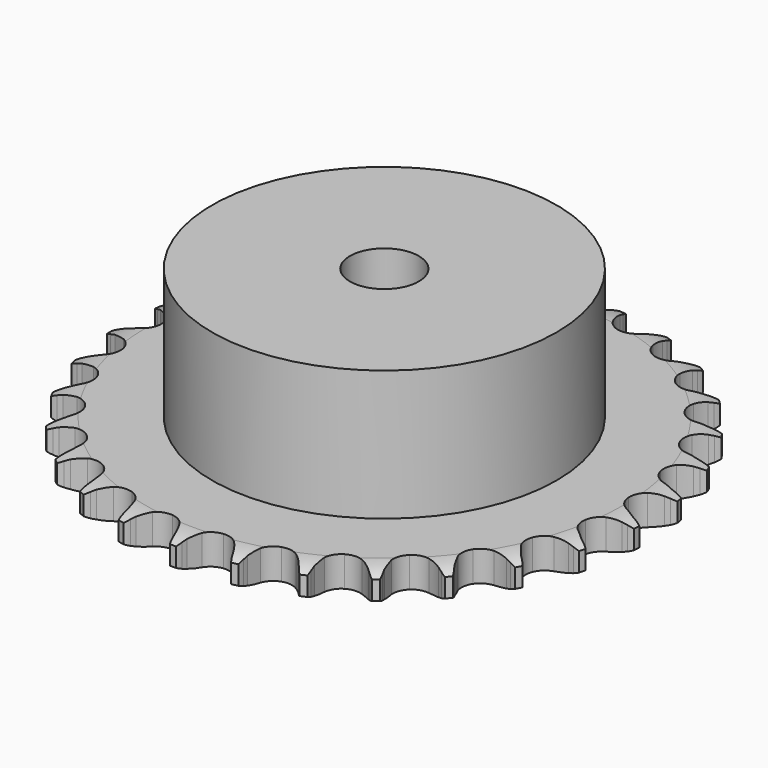
from build123d import *

# Parameters (mm, degrees)
PAD_DEPTH         = 5.3
SKETCH001_R       = 30
PAD001_DEPTH      = 28
SKETCH002_R       = 6
POCKET_DEPTH      = 0.001
POCKET_DEPTH_BACK = 28.001


with BuildPart() as part:
    # Sprocket → Pad (new body)
    with BuildSketch(Plane.XY):
        with BuildLine():
            ThreePointArc((-5.070808, 46.62531), (-4.460119, 45.833793), (-4.013256, 44.939504))
            Line((-4.013256, 44.939504), (-3.703711, 44.133111))
            ThreePointArc((-3.703711, 44.133111), (-3.211382, 43.078137), (-2.576433, 42.102331))
            ThreePointArc((-2.576433, 42.102331), (-1.439022, 41.158092), (0, 40.819705))
            ThreePointArc((0, 40.819705), (1.439022, 41.158092), (2.576433, 42.102331))
            ThreePointArc((2.576433, 42.102331), (3.211382, 43.078137), (3.703711, 44.133111))
            Line((3.703711, 44.133111), (4.013256, 44.939504))
            ThreePointArc((4.013256, 44.939504), (4.460119, 45.833793), (5.070808, 46.62531))
            ThreePointArc((5.070808, 46.62531), (5.497067, 45.721018), (5.741236, 44.751574))
            Line((5.741236, 44.751574), (5.870194, 43.897492))
            ThreePointArc((5.870194, 43.897492), (6.124224, 42.761346), (6.534559, 41.671859))
            ThreePointArc((6.534559, 41.671859), (7.442395, 40.505186), (8.77503, 39.865363))
            ThreePointArc((8.77503, 39.865363), (10.253152, 39.886492), (11.566954, 40.564145))
            Line((11.566954, 40.564145), (13.104434, 42.305115))
            ThreePointArc((13.104434, 42.305115), (13.332889, 42.671798), (13.580093, 43.026112))
            ThreePointArc((13.580093, 43.026112), (14.208754, 43.803431), (14.975319, 44.445163))
            ThreePointArc((14.975319, 44.445163), (15.197216, 43.470379), (15.227275, 42.471111))
            Line((15.227275, 42.471111), (15.169615, 41.609274))
            ThreePointArc((15.169615, 41.609274), (15.173469, 40.445083), (15.340003, 39.292857))
            ThreePointArc((15.340003, 39.292857), (15.975813, 37.958303), (17.139749, 37.046961))
            ThreePointArc((17.139749, 37.046961), (18.587856, 36.749843), (20.016618, 37.129225))
            Line((20.016618, 37.129225), (21.892409, 38.498979))
            ThreePointArc((21.892409, 38.498979), (22.194348, 38.807978), (22.51194, 39.100866))
            ThreePointArc((22.51194, 39.100866), (23.293004, 39.724869), (24.1796, 40.186808))
            ThreePointArc((24.1796, 40.186808), (24.18676, 39.187114), (24.001303, 38.204746))
            Line((24.001303, 38.204746), (23.759722, 37.375454))
            ThreePointArc((23.759722, 37.375454), (23.513219, 36.237652), (23.428165, 35.076565))
            ThreePointArc((23.428165, 35.076565), (23.762221, 33.636531), (24.703033, 32.496284))
            ThreePointArc((24.703033, 32.496284), (26.053412, 31.894813), (27.530326, 31.958183))
            Line((27.530326, 31.958183), (29.656719, 32.892673))
            ThreePointArc((29.656719, 32.892673), (30.018025, 33.129541), (30.391154, 33.347308))
            ThreePointArc((30.391154, 33.347308), (31.288099, 33.788816), (32.253271, 34.049364))
            ThreePointArc((32.253271, 34.049364), (32.045359, 33.071502), (31.653057, 32.15197))
            Line((31.653057, 32.15197), (31.238851, 31.393998))
            ThreePointArc((31.238851, 31.393998), (30.753517, 30.335789), (30.420852, 29.220131))
            ThreePointArc((30.420852, 29.220131), (30.437533, 27.741953), (31.11123, 26.426117))
            ThreePointArc((31.11123, 26.426117), (32.300739, 25.548416), (33.756747, 25.292812))
            Line((33.756747, 25.292812), (36.034314, 25.748343))
            ThreePointArc((36.034314, 25.748343), (36.438092, 25.902002), (36.849311, 26.034467))
            ThreePointArc((36.849311, 26.034467), (37.820198, 26.272836), (38.818814, 26.319809))
            ThreePointArc((38.818814, 26.319809), (38.405551, 25.409504), (37.82475, 24.595803))
            Line((37.82475, 24.595803), (37.257285, 23.944595))
            ThreePointArc((37.257285, 23.944595), (36.555815, 23.015458), (35.991094, 21.997397))
            ThreePointArc((35.991094, 21.997397), (35.68962, 20.550191), (36.064701, 19.120294))
            ThreePointArc((36.064701, 19.120294), (37.03772, 18.007404), (38.40474, 17.444778))
            Line((38.40474, 17.444778), (40.726984, 17.400048))
            ThreePointArc((40.726984, 17.400048), (41.154355, 17.463315), (41.584436, 17.504283))
            ThreePointArc((41.584436, 17.504283), (42.583866, 17.528367), (43.569232, 17.359569))
            ThreePointArc((43.569232, 17.359569), (42.969943, 16.559386), (42.227799, 15.889564))
            Line((42.227799, 15.889564), (41.533611, 15.375568))
            ThreePointArc((41.533611, 15.375568), (40.648803, 14.61895), (39.878432, 13.746089))
            ThreePointArc((39.878432, 13.746089), (39.2729, 12.397526), (39.331826, 10.920428))
            ThreePointArc((39.331826, 10.920428), (40.042859, 9.624386), (41.25697, 8.781045))
            Line((41.25697, 8.781045), (43.515306, 8.238147))
            ThreePointArc((43.515306, 8.238147), (43.946285, 8.208063), (44.375118, 8.155618))
            ThreePointArc((44.375118, 8.155618), (45.356359, 7.964291), (46.282402, 7.587615))
            ThreePointArc((46.282402, 7.587615), (45.525108, 6.934969), (44.656323, 6.440346))
            Line((44.656323, 6.440346), (43.867871, 6.087598))
            ThreePointArc((43.867871, 6.087598), (42.841099, 5.538876), (41.901099, 4.852029))
            ThreePointArc((41.901099, 4.852029), (41.019823, 3.665166), (40.759839, 2.209934))
            ThreePointArc((40.759839, 2.209934), (41.175638, 0.791342), (42.18007, -0.29328))
            Line((42.18007, -0.29328), (44.268901, -1.308961))
            ThreePointArc((44.268901, -1.308961), (44.683336, -1.430989), (45.090869, -1.574395))
            ThreePointArc((45.090869, -1.574395), (46.00804, -1.972186), (46.831458, -2.539128))
            ThreePointArc((46.831458, -2.539128), (45.95157, -3.013719), (44.996767, -3.310015))
            Line((44.996767, -3.310015), (44.150918, -3.485023))
            ThreePointArc((44.150918, -3.485023), (43.030192, -3.80019), (41.964518, -4.268907))
            ThreePointArc((41.964518, -4.268907), (40.848705, -5.238573), (40.281967, -6.603893))
            ThreePointArc((40.281967, -6.603893), (40.383089, -8.078704), (41.130877, -9.353892))
            Line((41.130877, -9.353892), (42.95253, -10.794863))
            ThreePointArc((42.95253, -10.794863), (43.331044, -11.00313), (43.698221, -11.23079))
            ThreePointArc((43.698221, -11.23079), (44.508436, -11.816446), (45.190727, -12.547144))
            ThreePointArc((45.190727, -12.547144), (44.229387, -12.821489), (43.233212, -12.905603))
            Line((43.233212, -12.905603), (42.369517, -12.894687))
            ThreePointArc((42.369517, -12.894687), (41.207242, -12.961563), (40.065722, -13.190233))
            ThreePointArc((40.065722, -13.190233), (38.767547, -13.897362), (37.920555, -15.10893))
            ThreePointArc((37.920555, -15.10893), (37.702273, -16.570998), (38.158449, -17.977126))
            Line((38.158449, -17.977126), (39.627748, -19.776009))
            ThreePointArc((39.627748, -19.776009), (39.952641, -20.060777), (40.262293, -20.362046))
            ThreePointArc((40.262293, -20.362046), (40.927667, -21.108182), (41.436928, -21.968469))
            ThreePointArc((41.436928, -21.968469), (40.439087, -22.029741), (39.44812, -21.89774))
            Line((39.44812, -21.89774), (38.606965, -21.70141))
            ThreePointArc((38.606965, -21.70141), (37.457486, -21.516868), (36.293497, -21.494798))
            ThreePointArc((36.293497, -21.494798), (34.873661, -21.906326), (33.78602, -22.90749))
            ThreePointArc((33.78602, -22.90749), (33.25854, -24.288452), (33.401775, -25.759769))
            Line((33.401775, -25.759769), (34.450016, -27.832452))
            ThreePointArc((34.450016, -27.832452), (34.706096, -28.180404), (34.943745, -28.541196))
            ThreePointArc((34.943745, -28.541196), (35.433166, -29.412923), (35.745584, -30.362573))
            ThreePointArc((35.745584, -30.362573), (34.757901, -30.207906), (33.818478, -29.865963))
            Line((33.818478, -29.865963), (33.039194, -29.493399))
            ThreePointArc((33.039194, -29.493399), (31.95626, -29.066068), (30.824229, -28.794291))
            ThreePointArc((30.824229, -28.794291), (29.349121, -28.890975), (28.071689, -29.634922))
            ThreePointArc((28.071689, -29.634922), (27.259674, -30.870204), (27.083272, -32.337914))
            Line((27.083272, -32.337914), (27.661439, -34.587479))
            ThreePointArc((27.661439, -34.587479), (27.836733, -34.982346), (27.991266, -35.385791))
            ThreePointArc((27.991266, -35.385791), (28.281849, -36.342349), (28.382817, -37.336957))
            ThreePointArc((28.382817, -37.336957), (27.451474, -36.973583), (26.607522, -36.437686))
            Line((26.607522, -36.437686), (25.926547, -35.90631))
            ThreePointArc((25.926547, -35.90631), (24.960796, -35.256171), (23.913655, -34.747395))
            ThreePointArc((23.913655, -34.747395), (22.45225, -34.524713), (21.044756, -34.976657))
            ThreePointArc((21.044756, -34.976657), (19.986177, -36.0085), (19.498384, -37.403975))
            Line((19.498384, -37.403975), (19.579444, -39.725235))
            ThreePointArc((19.579444, -39.725235), (19.665756, -40.148553), (19.729947, -40.575786))
            ThreePointArc((19.729947, -40.575786), (19.808104, -41.572446), (19.6929, -42.565506))
            ThreePointArc((19.6929, -42.565506), (18.861446, -42.010417), (18.152427, -41.305624))
            Line((18.152427, -41.305624), (17.601603, -40.640282))
            ThreePointArc((17.601603, -40.640282), (16.798191, -39.797734), (15.884904, -39.075749))
            ThreePointArc((15.884904, -39.075749), (14.505536, -38.544115), (13.033794, -38.682923))
            ThreePointArc((13.033794, -38.682923), (11.778148, -39.463079), (11.001774, -40.721067))
            Line((11.001774, -40.721067), (10.581936, -43.005483))
            ThreePointArc((10.581936, -43.005483), (10.575229, -43.437459), (10.546077, -43.868502))
            ThreePointArc((10.546077, -43.868502), (10.408155, -44.858662), (10.082166, -45.80374))
            ThreePointArc((10.082166, -45.80374), (9.389478, -45.08289), (8.848545, -44.242157))
            Line((8.848545, -44.242157), (8.453628, -43.473959))
            ThreePointArc((8.453628, -43.473959), (7.850123, -42.4784), (7.113393, -41.576964))
            ThreePointArc((7.113393, -41.576964), (5.880559, -40.761236), (4.413386, -40.580418))
            ThreePointArc((4.413386, -40.580418), (3.019386, -41.072407), (1.990733, -42.134087))
            Line((1.990733, -42.134087), (1.089629, -44.274842))
            ThreePointArc((1.089629, -44.274842), (0.990216, -44.695277), (0.869085, -45.109976))
            ThreePointArc((0.869085, -45.109976), (0.521531, -46.047337), (0, -46.900241))
            ThreePointArc((0, -46.900241), (-0.521531, -46.047337), (-0.869085, -45.109976))
            Line((-0.869085, -45.109976), (-1.089629, -44.274842))
            ThreePointArc((-1.089629, -44.274842), (-1.465009, -43.172823), (-1.990733, -42.134087))
            ThreePointArc((-1.990733, -42.134087), (-3.019386, -41.072407), (-4.413386, -40.580418))
            ThreePointArc((-4.413386, -40.580418), (-5.880559, -40.761236), (-7.113393, -41.576964))
            Line((-7.113393, -41.576964), (-8.453628, -43.473959))
            ThreePointArc((-8.453628, -43.473959), (-8.641098, -43.863193), (-8.848545, -44.242157))
            ThreePointArc((-8.848545, -44.242157), (-9.389478, -45.08289), (-10.082166, -45.80374))
            ThreePointArc((-10.082166, -45.80374), (-10.408155, -44.858662), (-10.546077, -43.868502))
            Line((-10.546077, -43.868502), (-10.581936, -43.005483))
            ThreePointArc((-10.581936, -43.005483), (-10.711639, -41.848532), (-11.001774, -40.721067))
            ThreePointArc((-11.001774, -40.721067), (-11.778148, -39.463079), (-13.033794, -38.682923))
            ThreePointArc((-13.033794, -38.682923), (-14.505536, -38.544115), (-15.884904, -39.075749))
            Line((-15.884904, -39.075749), (-17.601603, -40.640282))
            ThreePointArc((-17.601603, -40.640282), (-17.868364, -40.980116), (-18.152427, -41.305624))
            ThreePointArc((-18.152427, -41.305624), (-18.861446, -42.010417), (-19.6929, -42.565506))
            ThreePointArc((-19.6929, -42.565506), (-19.808104, -41.572446), (-19.729947, -40.575786))
            Line((-19.729947, -40.575786), (-19.579444, -39.725235))
            ThreePointArc((-19.579444, -39.725235), (-19.457404, -38.567451), (-19.498384, -37.403975))
            ThreePointArc((-19.498384, -37.403975), (-19.986177, -36.0085), (-21.044756, -34.976657))
            ThreePointArc((-21.044756, -34.976657), (-22.45225, -34.524713), (-23.913655, -34.747395))
            Line((-23.913655, -34.747395), (-25.926547, -35.90631))
            ThreePointArc((-25.926547, -35.90631), (-26.260125, -36.180853), (-26.607522, -36.437686))
            ThreePointArc((-26.607522, -36.437686), (-27.451474, -36.973583), (-28.382817, -37.336957))
            ThreePointArc((-28.382817, -37.336957), (-28.281849, -36.342349), (-27.991266, -35.385791))
            Line((-27.991266, -35.385791), (-27.661439, -34.587479))
            ThreePointArc((-27.661439, -34.587479), (-27.293363, -33.482999), (-27.083272, -32.337914))
            ThreePointArc((-27.083272, -32.337914), (-27.259674, -30.870204), (-28.071689, -29.634922))
            ThreePointArc((-28.071689, -29.634922), (-29.349121, -28.890975), (-30.824229, -28.794291))
            Line((-30.824229, -28.794291), (-33.039194, -29.493399))
            ThreePointArc((-33.039194, -29.493399), (-33.423991, -29.689814), (-33.818478, -29.865963))
            ThreePointArc((-33.818478, -29.865963), (-34.757901, -30.207906), (-35.745584, -30.362573))
            ThreePointArc((-35.745584, -30.362573), (-35.433166, -29.412923), (-34.943745, -28.541196))
            Line((-34.943745, -28.541196), (-34.450016, -27.832452))
            ThreePointArc((-34.450016, -27.832452), (-33.853114, -26.832919), (-33.401775, -25.759769))
            ThreePointArc((-33.401775, -25.759769), (-33.25854, -24.288452), (-33.78602, -22.90749))
            ThreePointArc((-33.78602, -22.90749), (-34.873661, -21.906326), (-36.293497, -21.494798))
            Line((-36.293497, -21.494798), (-38.606965, -21.70141))
            ThreePointArc((-38.606965, -21.70141), (-39.02499, -21.810513), (-39.44812, -21.89774))
            ThreePointArc((-39.44812, -21.89774), (-40.439087, -22.029741), (-41.436928, -21.968469))
            ThreePointArc((-41.436928, -21.968469), (-40.927667, -21.108182), (-40.262293, -20.362046))
            Line((-40.262293, -20.362046), (-39.627748, -19.776009))
            ThreePointArc((-39.627748, -19.776009), (-38.829931, -18.928161), (-38.158449, -17.977126))
            ThreePointArc((-38.158449, -17.977126), (-37.702273, -16.570998), (-37.920555, -15.10893))
            ThreePointArc((-37.920555, -15.10893), (-38.767547, -13.897362), (-40.065722, -13.190233))
            Line((-40.065722, -13.190233), (-42.369517, -12.894687))
            ThreePointArc((-42.369517, -12.894687), (-42.801223, -12.911376), (-43.233212, -12.905603))
            ThreePointArc((-43.233212, -12.905603), (-44.229387, -12.821489), (-45.190727, -12.547144))
            ThreePointArc((-45.190727, -12.547144), (-44.508436, -11.816446), (-43.698221, -11.23079))
            Line((-43.698221, -11.23079), (-42.95253, -10.794863))
            ThreePointArc((-42.95253, -10.794863), (-41.991104, -10.138344), (-41.130877, -9.353892))
            ThreePointArc((-41.130877, -9.353892), (-40.383089, -8.078704), (-40.281967, -6.603893))
            ThreePointArc((-40.281967, -6.603893), (-40.848705, -5.238573), (-41.964518, -4.268907))
            Line((-41.964518, -4.268907), (-44.150918, -3.485023))
            ThreePointArc((-44.150918, -3.485023), (-44.576118, -3.408518), (-44.996767, -3.310015))
            ThreePointArc((-44.996767, -3.310015), (-45.95157, -3.013719), (-46.831458, -2.539128))
            ThreePointArc((-46.831458, -2.539128), (-46.00804, -1.972186), (-45.090869, -1.574395))
            Line((-45.090869, -1.574395), (-44.268901, -1.308961))
            ThreePointArc((-44.268901, -1.308961), (-43.18882, -0.874469), (-42.18007, -0.29328))
            ThreePointArc((-42.18007, -0.29328), (-41.175638, 0.791342), (-40.759839, 2.209934))
            ThreePointArc((-40.759839, 2.209934), (-41.019823, 3.665166), (-41.901099, 4.852029))
            Line((-41.901099, 4.852029), (-43.867871, 6.087598))
            ThreePointArc((-43.867871, 6.087598), (-44.266684, 6.253719), (-44.656323, 6.440346))
            ThreePointArc((-44.656323, 6.440346), (-45.525108, 6.934969), (-46.282402, 7.587615))
            ThreePointArc((-46.282402, 7.587615), (-45.356359, 7.964291), (-44.375118, 8.155618))
            Line((-44.375118, 8.155618), (-43.515306, 8.238147))
            ThreePointArc((-43.515306, 8.238147), (-42.367074, 8.430295), (-41.25697, 8.781045))
            ThreePointArc((-41.25697, 8.781045), (-40.042859, 9.624386), (-39.331826, 10.920428))
            ThreePointArc((-39.331826, 10.920428), (-39.2729, 12.397526), (-39.878432, 13.746089))
            Line((-39.878432, 13.746089), (-41.533611, 15.375568))
            ThreePointArc((-41.533611, 15.375568), (-41.887388, 15.623539), (-42.227799, 15.889564))
            ThreePointArc((-42.227799, 15.889564), (-42.969943, 16.559386), (-43.569232, 17.359569))
            ThreePointArc((-43.569232, 17.359569), (-42.583866, 17.528367), (-41.584436, 17.504283))
            Line((-41.584436, 17.504283), (-40.726984, 17.400048))
            ThreePointArc((-40.726984, 17.400048), (-39.564291, 17.340868), (-38.40474, 17.444778))
            ThreePointArc((-38.40474, 17.444778), (-37.03772, 18.007404), (-36.064701, 19.120294))
            ThreePointArc((-36.064701, 19.120294), (-35.68962, 20.550191), (-35.991094, 21.997397))
            Line((-35.991094, 21.997397), (-37.257285, 23.944595))
            ThreePointArc((-37.257285, 23.944595), (-37.549485, 24.26282), (-37.82475, 24.595803))
            ThreePointArc((-37.82475, 24.595803), (-38.405551, 25.409504), (-38.818814, 26.319809))
            ThreePointArc((-38.818814, 26.319809), (-37.820198, 26.272836), (-36.849311, 26.034467))
            Line((-36.849311, 26.034467), (-36.034314, 25.748343))
            ThreePointArc((-36.034314, 25.748343), (-34.911526, 25.440602), (-33.756747, 25.292812))
            ThreePointArc((-33.756747, 25.292812), (-32.300739, 25.548416), (-31.11123, 26.426117))
            ThreePointArc((-31.11123, 26.426117), (-30.437533, 27.741953), (-30.420852, 29.220131))
            Line((-30.420852, 29.220131), (-31.238851, 31.393998))
            ThreePointArc((-31.238851, 31.393998), (-31.45581, 31.767598), (-31.653057, 32.15197))
            ThreePointArc((-31.653057, 32.15197), (-32.045359, 33.071502), (-32.253271, 34.049364))
            ThreePointArc((-32.253271, 34.049364), (-31.288099, 33.788816), (-30.391154, 33.347308))
            Line((-30.391154, 33.347308), (-29.656719, 32.892673))
            ThreePointArc((-29.656719, 32.892673), (-28.626337, 32.350761), (-27.530326, 31.958183))
            ThreePointArc((-27.530326, 31.958183), (-26.053412, 31.894813), (-24.703033, 32.496284))
            ThreePointArc((-24.703033, 32.496284), (-23.762221, 33.636531), (-23.428165, 35.076565))
            Line((-23.428165, 35.076565), (-23.759722, 37.375454))
            ThreePointArc((-23.759722, 37.375454), (-23.891296, 37.786959), (-24.001303, 38.204746))
            ThreePointArc((-24.001303, 38.204746), (-24.18676, 39.187114), (-24.1796, 40.186808))
            ThreePointArc((-24.1796, 40.186808), (-23.293004, 39.724869), (-22.51194, 39.100866))
            Line((-22.51194, 39.100866), (-21.892409, 38.498979))
            ThreePointArc((-21.892409, 38.498979), (-21.002612, 37.748234), (-20.016618, 37.129225))
            ThreePointArc((-20.016618, 37.129225), (-18.587856, 36.749843), (-17.139749, 37.046961))
            ThreePointArc((-17.139749, 37.046961), (-15.975813, 37.958303), (-15.340003, 39.292857))
            Line((-15.340003, 39.292857), (-15.169615, 41.609274))
            ThreePointArc((-15.169615, 41.609274), (-15.209652, 42.039443), (-15.227275, 42.471111))
            ThreePointArc((-15.227275, 42.471111), (-15.197216, 43.470379), (-14.975319, 44.445163))
            ThreePointArc((-14.975319, 44.445163), (-14.208754, 43.803431), (-13.580093, 43.026112))
            Line((-13.580093, 43.026112), (-13.104434, 42.305115))
            ThreePointArc((-13.104434, 42.305115), (-12.396828, 41.380642), (-11.566954, 40.564145))
            ThreePointArc((-11.566954, 40.564145), (-10.253152, 39.886492), (-8.77503, 39.865363))
            ThreePointArc((-8.77503, 39.865363), (-7.442395, 40.505186), (-6.534559, 41.671859))
            Line((-6.534559, 41.671859), (-5.870194, 43.897492))
            ThreePointArc((-5.870194, 43.897492), (-5.816821, 44.32621), (-5.741236, 44.751574))
            ThreePointArc((-5.741236, 44.751574), (-5.497067, 45.721018), (-5.070808, 46.62531))
        make_face()
    extrude(amount=PAD_DEPTH)

    # Sketch → Groove (revolve, cut)
    with BuildSketch(Plane.XZ):
        with BuildLine():
            Line((41.641101, 0), (46, 0))
            Line((50.358899, 0), (46, 0))
            Line((50.358899, 5.3), (50.358899, 0))
            Line((46, 5.3), (50.358899, 5.3))
            Line((41.641101, 5.3), (46, 5.3))
            ThreePointArc((46, 4.3), (43.877169, 5.046794), (41.641101, 5.3))
            Line((46, 1), (46, 4.3))
            ThreePointArc((41.641101, 0), (43.877169, 0.253206), (46, 1))
        make_face()
    revolve(axis=Axis((0, 0, 0), (0, 0, 1)), mode=Mode.SUBTRACT)

    # Sketch001 → Pad001 (join)
    with BuildSketch(Plane.XY):
        Circle(SKETCH001_R)
    extrude(amount=PAD001_DEPTH)

    # Sketch002 → Pocket (cut, two sides)
    with BuildSketch(Plane.XY) as pocket_sk:
        Circle(SKETCH002_R)
    extrude(amount=-POCKET_DEPTH, mode=Mode.SUBTRACT)
    extrude(pocket_sk.sketch, amount=POCKET_DEPTH_BACK, mode=Mode.SUBTRACT)


solid = part.part
